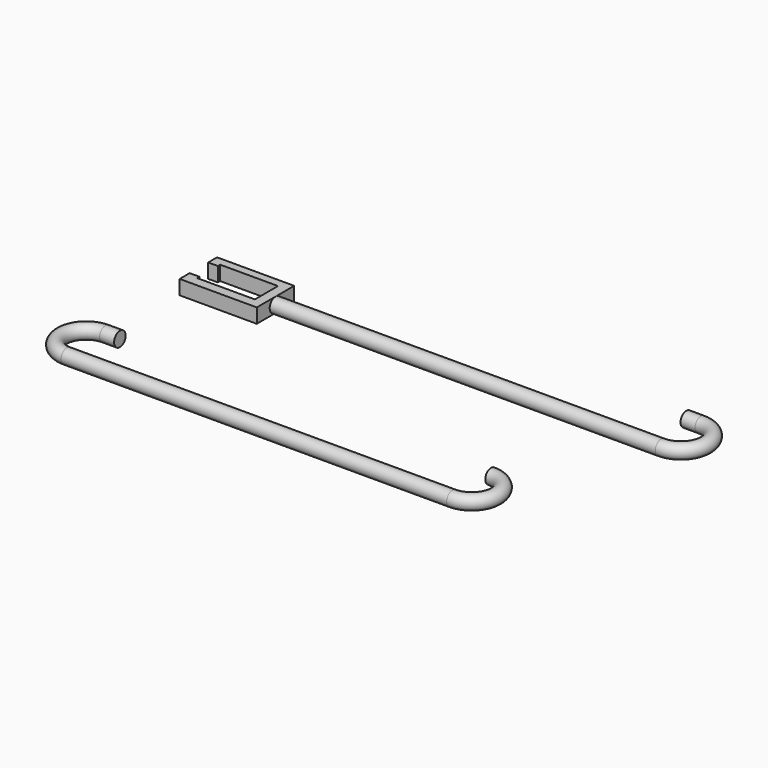
from build123d import *

# Parameters (mm, degrees)
F1_DEPTH  = 3
F2_R      = 1.5
F3_DEPTH  = 80
F4_R      = 1.5
F9_R      = 1.5
F10_DEPTH = 3


with BuildPart() as f1:
    # F0 (on Top) → F1 (new body)
    with BuildSketch(Plane.XY):
        Polygon((12, 0), (0, 0), (0, 0.6), (-2, 0.6), (-2, -2), (14, -2), (14, 7.7), (-2, 7.7), (-2, 5.4), (0, 5.4), (0, 6), (12, 6), align=None)
    extrude(amount=F1_DEPTH)

    # F2 (on face) → F3 (join)
    with BuildSketch(Plane.YZ.offset(14)):
        with Locations((2.85, 1.5)):
            Circle(F2_R)
    extrude(amount=F3_DEPTH)

    # F7: sweep along a path in F6
    with BuildLine(Plane.XY.offset(1.5)) as f7_path:
        ThreePointArc((94, 3), (99, 8), (94, 13))
        Line((94, 13), (91, 13))
    # F4 (on face) → F7 (sweep)
    with BuildSketch(Plane.YZ.offset(94)):
        with Locations((2.85, 1.5)):
            Circle(F4_R)
    sweep(path=f7_path.line)


with BuildPart() as f10:
    # F9 (on Right) → F10 (new body)
    with BuildSketch(Plane.YZ):
        with Locations((-20, 0)):
            Circle(F9_R)
    extrude(amount=-F10_DEPTH)

    # F11: sweep along a path in F8
    with BuildLine(Plane.XY) as f11_path:
        Line((0, -20), (-3, -20))
        ThreePointArc((-3, -20), (-8, -25), (-3, -30))
        Line((-3, -30), (77, -30))
        ThreePointArc((77, -30), (82, -25), (77, -20))
    # F9 (on Right) → F11 (sweep)
    with BuildSketch(Plane.YZ):
        with Locations((-20, 0)):
            Circle(F9_R)
    sweep(path=f11_path.line)


solid = Compound([f1.part, f10.part])
